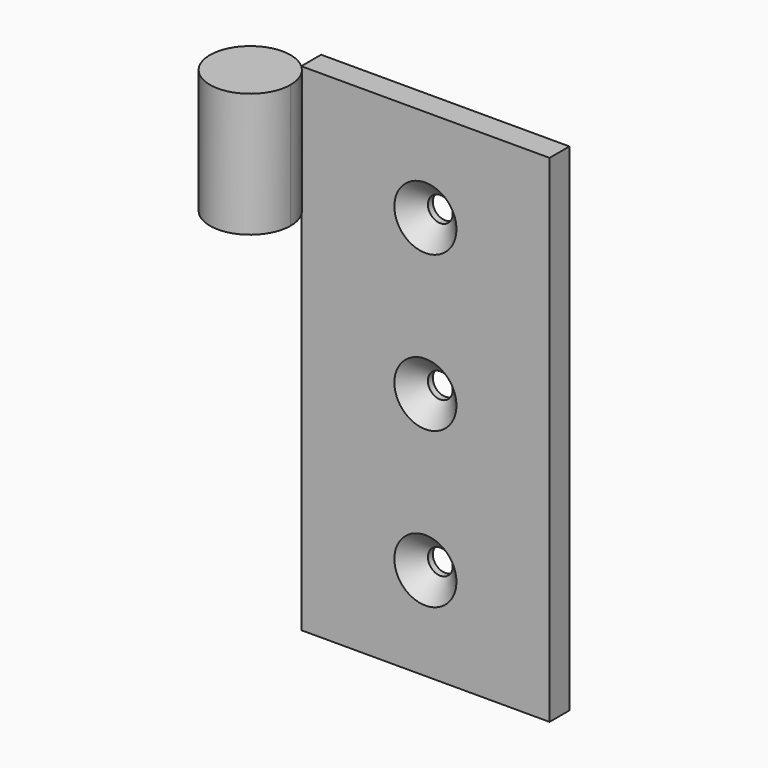
from build123d import *

# Parameters (mm, degrees)
F0_W           = 50.8
F0_H           = 101.6
F1_DEPTH       = 5.08
F3_D           = 5.08
F3_CSINK_D     = 12.7
F3_CSINK_ANGLE = 90
F4_R           = 8.255
F5_DEPTH       = 25.4


with BuildPart() as f1:
    # F0 (on Front) → F1 (new body)
    with BuildSketch(Plane.XZ):
        Rectangle(F0_W, F0_H)
    extrude(amount=-F1_DEPTH)

    # F3 (through all)
    with Locations(Plane.XZ):
        with Locations((0, 31.75), (0, -31.75), (0, 0)):
            CounterSinkHole(F3_D / 2, F3_CSINK_D / 2, counter_sink_angle=F3_CSINK_ANGLE)

    # F4 (on face) → F5 (join)
    with BuildSketch(Plane.XY.offset(50.8)):
        with Locations((-30.955659, -6.105709)):
            Circle(F4_R)
    extrude(amount=-F5_DEPTH)


solid = f1.part
